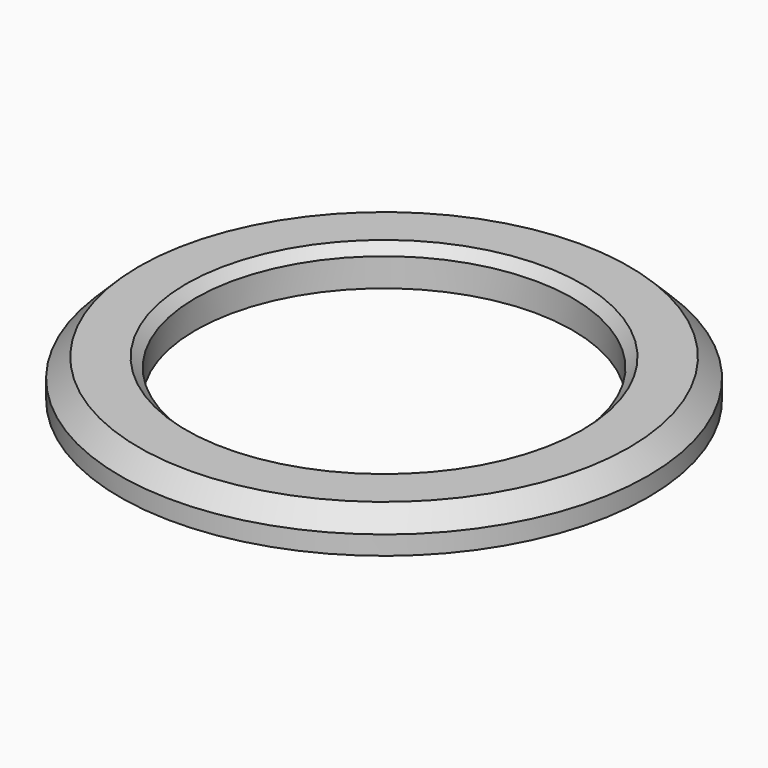
from build123d import *

# Parameters (mm, degrees)
SKETCH_R        = 14
SKETCH_R_2      = 10
PAD_DEPTH       = 2
CHAMFER_SIZE    = 0.5
CHAMFER001_SIZE = 1


with BuildPart() as part:
    # Sketch → Pad (new body)
    with BuildSketch(Plane.XY):
        Circle(SKETCH_R)
        Circle(SKETCH_R_2, mode=Mode.SUBTRACT)
    extrude(amount=PAD_DEPTH)

    # Chamfer
    chamfer_edges = [part.edges().sort_by_distance(p)[0] for p in [
        (-10, 0, 2),
    ]]
    chamfer(chamfer_edges, length=CHAMFER_SIZE)

    # Chamfer001
    chamfer001_edges = [part.edges().sort_by_distance(p)[0] for p in [
        (-14, 0, 2),
    ]]
    chamfer(chamfer001_edges, length=CHAMFER001_SIZE)


solid = part.part
